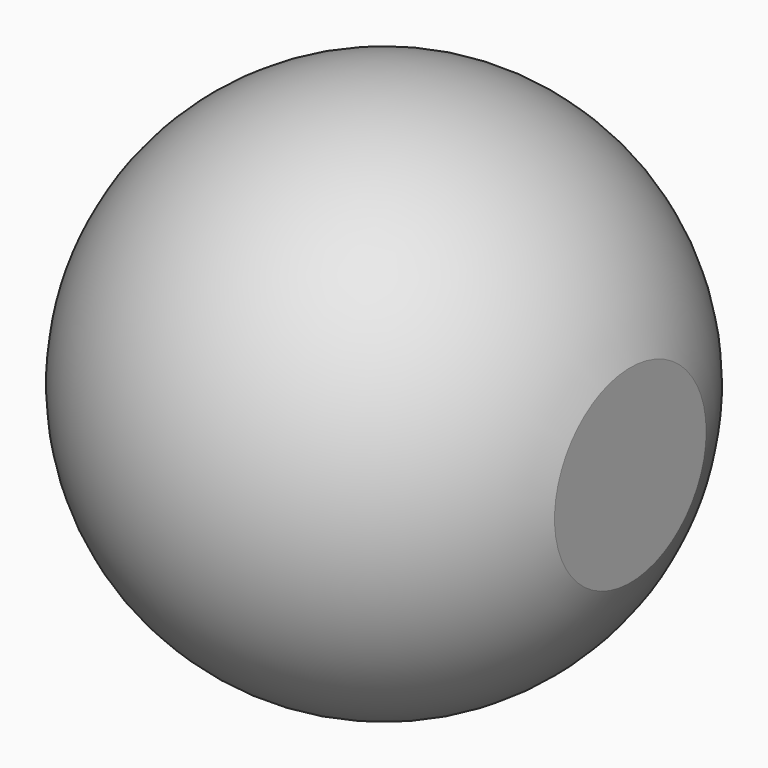
from build123d import *

# Parameters (mm, degrees)
F3_W     = 108.085104
F3_H     = 101.6
F4_DEPTH = 35.052


with BuildPart() as f1:
    # F0 (on Top) → F1 (revolve)
    with BuildSketch(Plane.XY):
        with BuildLine():
            ThreePointArc((38.1, 0), (0, 38.1), (-38.1, 0))
            Line((-38.1, 0), (38.1, 0))
        make_face()
    revolve(axis=Axis((0, 0, 0), (1, 0, 0)))

    # F3 (on offset) → F4 (cut)
    with BuildSketch(Plane.YZ.offset(35.56)):
        with Locations((1.792222, -0.384047)):
            Rectangle(F3_W, F3_H)
    extrude(amount=F4_DEPTH, mode=Mode.SUBTRACT)


solid = f1.part
